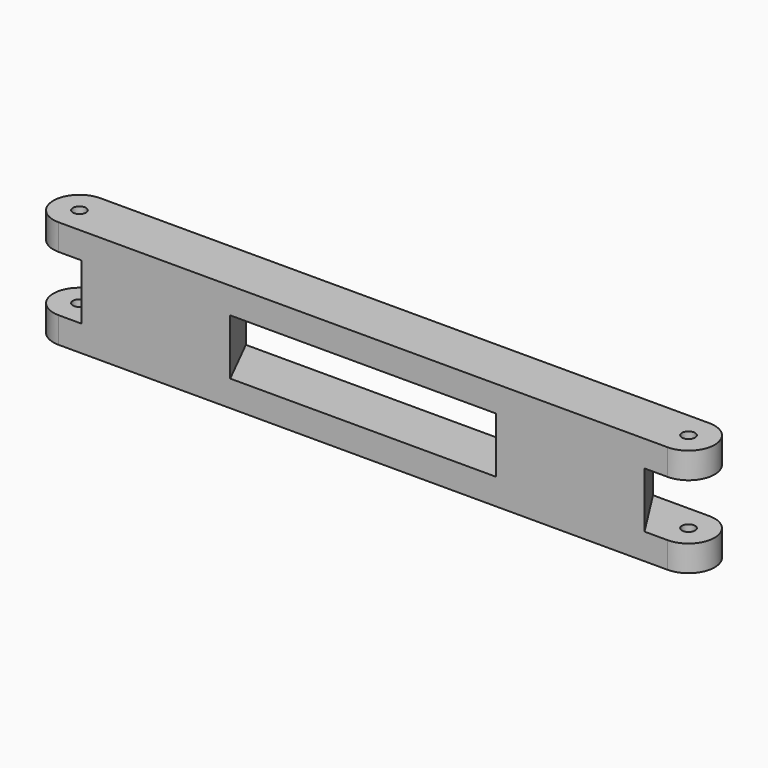
from build123d import *

# Parameters (mm, degrees)
F0_R     = 0.75
F1_DEPTH = 3
F3_DEPTH = 3.2


with BuildPart() as f1:
    # F0 (on Top) → F1 (new body)
    with BuildSketch(Plane.XY):
        with BuildLine():
            ThreePointArc((35, -3), (38, 0), (35, 3))
            Line((35, 3), (-35, 3))
            ThreePointArc((-35, 3), (-38, 0), (-35, -3))
            Line((-35, -3), (35, -3))
        make_face()
        with Locations((-35, 0)):
            Circle(F0_R, mode=Mode.SUBTRACT)
        with Locations((35, 0)):
            Circle(F0_R, mode=Mode.SUBTRACT)
    extrude(amount=F1_DEPTH)

    # F2 (on face) → F3 (join)
    with BuildSketch(Plane.XY.offset(3)):
        Polygon((-28.517587, 3), (-32.340631, -3), (-15.273468, -3), (-18.277289, 3), align=None)
        Polygon((18.277289, 3), (15.273468, -3), (32.340631, -3), (28.517587, 3), align=None)
    extrude(amount=F3_DEPTH)

    # F4: F1 across face


with BuildPart() as f1_1:
    add(f1.part)
    add(f1.part.mirror(Plane(origin=(23.619311, -0.25, 6.2), x_dir=(1, 0, 0), z_dir=(0, 0, 1))))


solid = f1_1.part
